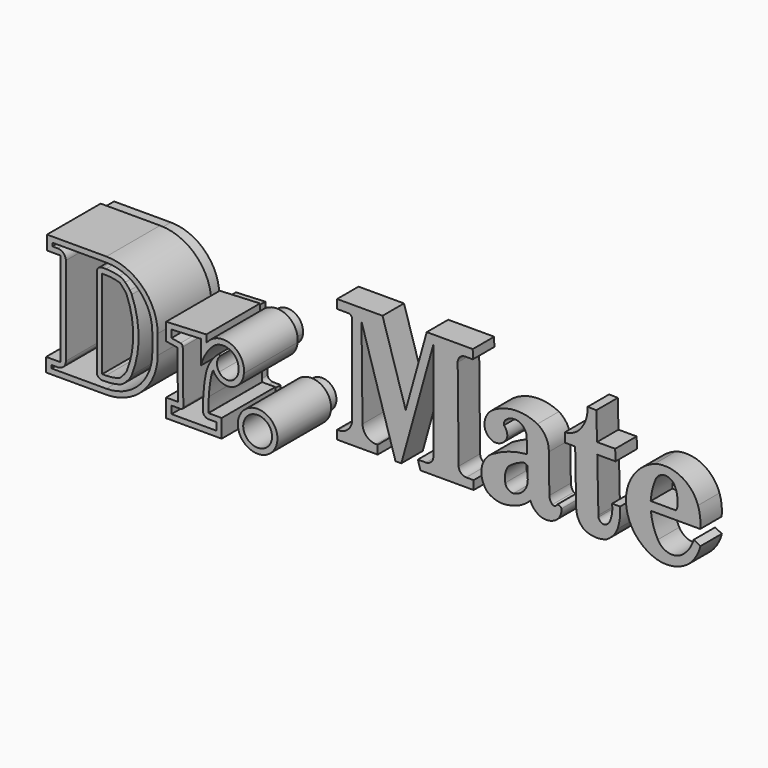
from build123d import *

# Parameters (mm, degrees)
F1_DEPTH  = 5
F3_DEPTH  = 12.5
F4_R      = 5
F6_DEPTH  = 5
F7_R      = 5.37597
F8_DEPTH  = 5
F10_DEPTH = 5
F12_DEPTH = 5
F14_DEPTH = 5
F16_DEPTH = 5
F18_DEPTH = 25
F20_DEPTH = 25
F21_R     = 7.37597
F21_R_2   = 5.37597
F22_DEPTH = 25


with BuildPart() as f1:
    # F0 (on Front) → F1 (new body, symmetric)
    with BuildSketch(Plane.XZ):
        with BuildLine():
            ThreePointArc((41.928615, 27.375755), (36.627247, 40.174388), (23.828615, 45.475755))
            Line((23.828615, 45.475755), (2.694897, 45.475755))
            Line((2.694897, 45.475755), (2.694897, 42.241637))
            Line((2.694897, 42.241637), (5.72509, 42.241637))
            ThreePointArc((5.72509, 42.241637), (7.139303, 41.65585), (7.72509, 40.241637))
            Line((7.72509, 40.241637), (7.72509, 7.241453))
            ThreePointArc((7.72509, 7.241453), (7.139303, 5.827239), (5.72509, 5.241453))
            Line((5.72509, 5.241453), (2.359551, 5.241453))
            Line((2.359551, 5.241453), (2.359551, 2.111555))
            Line((2.359551, 2.111555), (23.828615, 2.111555))
            ThreePointArc((23.828615, 2.111555), (36.627247, 7.412922), (41.928615, 20.211555))
            Line((41.928615, 20.211555), (41.928615, 27.375755))
        make_face()
    extrude(amount=F1_DEPTH, both=True)

    # F2 (on Front) → F3 (cut, symmetric)
    with BuildSketch(Plane.XZ):
        with BuildLine():
            ThreePointArc((22.255834, 42.332382), (20.84162, 41.746595), (20.255834, 40.332382))
            Line((20.255834, 40.332382), (20.255834, 7.374743))
            ThreePointArc((20.255834, 7.374743), (20.84162, 5.96053), (22.255834, 5.374743))
            Line((22.255834, 5.374743), (23.679911, 5.374743))
            ThreePointArc((23.679911, 5.374743), (26.847073, 5.655571), (29.915409, 6.489289))
            ThreePointArc((29.915409, 6.489289), (31.557457, 8.171211), (33.024682, 10.00763))
            ThreePointArc((33.024682, 10.00763), (35.838498, 23.853563), (33.024682, 37.699496))
            ThreePointArc((33.024682, 37.699496), (31.557457, 39.535914), (29.915409, 41.217836))
            ThreePointArc((29.915409, 41.217836), (26.847073, 42.051555), (23.679911, 42.332382))
            Line((23.679911, 42.332382), (22.255834, 42.332382))
        make_face()
    extrude(amount=F3_DEPTH, both=True, mode=Mode.SUBTRACT)

    # F4
    f4_edges = [f1.edges().sort_by_distance(p)[0] for p in [
        (33.024682, 0, 10.00763),
        (29.915409, 0, 6.489289),
        (33.024682, 0, 37.699496),
        (29.915409, 0, 41.217836),
    ]]
    fillet(f4_edges, radius=F4_R)


with BuildPart() as f6:
    # F5 (on Front) → F6 (new body, symmetric)
    with BuildSketch(Plane.XZ):
        with BuildLine():
            Line((59.08636, 30.932959), (48.097987, 30.420209))
            Line((48.097987, 30.420209), (48.097987, 27.610346))
            Line((48.097987, 27.610346), (51.457718, 27.038821))
            ThreePointArc((51.457718, 27.038821), (52.050479, 26.702366), (52.289954, 26.064229))
            Line((52.289954, 26.064229), (52.510208, 6.479412))
            ThreePointArc((52.510208, 6.479412), (52.221343, 5.765047), (51.510271, 5.468167))
            Line((51.510271, 5.468167), (48.097987, 5.468167))
            Line((48.097987, 5.468167), (48.097987, 2.663691))
            Line((48.097987, 2.663691), (64.79115, 2.663691))
            Line((64.79115, 2.663691), (64.79115, 5.468167))
            Line((64.79115, 5.468167), (61.827441, 5.468167))
            ThreePointArc((61.827441, 5.468167), (60.623815, 5.923207), (59.888292, 6.97904))
            ThreePointArc((59.888292, 6.97904), (59.807752, 10.034382), (60.031943, 13.082551))
            ThreePointArc((60.031943, 13.082551), (60.342022, 16.746232), (60.961258, 20.370491))
            ThreePointArc((60.961258, 20.370491), (62.625207, 24.520168), (65.505102, 27.939927))
            ThreePointArc((65.505102, 27.939927), (65.978585, 27.977635), (66.106237, 27.520128))
            ThreePointArc((66.106237, 27.520128), (65.059345, 24.927677), (65.855473, 22.247571))
            ThreePointArc((65.855473, 22.247571), (67.650507, 20.854267), (69.917969, 20.70575))
            ThreePointArc((69.917969, 20.70575), (72.143746, 22.340309), (73.065154, 24.943551))
            ThreePointArc((73.065154, 24.943551), (70.299431, 30.621512), (63.990012, 30.339213))
            ThreePointArc((63.990012, 30.339213), (60.907157, 26.647036), (59.08636, 22.194974))
            Line((59.08636, 22.194974), (59.08636, 30.932959))
        make_face()
    extrude(amount=F6_DEPTH, both=True)


with BuildPart() as f8:
    # F7 (on Front) → F8 (new body, symmetric)
    with BuildSketch(Plane.XZ):
        with Locations((80.198042, 7.442546)):
            Circle(F7_R)
    extrude(amount=F8_DEPTH, both=True)


with BuildPart() as f10:
    # F9 (on Front) → F10 (new body, symmetric)
    with BuildSketch(Plane.XZ):
        with BuildLine():
            Line((110.74648, 47.16339), (93.808994, 47.16339))
            Line((93.808994, 47.16339), (93.808994, 43.880991))
            Line((93.808994, 43.880991), (97.904898, 43.874651))
            ThreePointArc((97.904898, 43.874651), (98.964057, 43.434491), (99.402577, 42.374652))
            Line((99.402577, 42.374652), (99.402577, 9.272454))
            ThreePointArc((99.402577, 9.272454), (97.93811, 5.73692), (94.402577, 4.272454))
            Line((94.402577, 4.272454), (93.808994, 4.272454))
            Line((93.808994, 4.272454), (93.808994, 1.022454))
            Line((93.808994, 1.022454), (108.944058, 1.022454))
            Line((108.944058, 1.022454), (108.944058, 4.272454))
            Line((108.944058, 4.272454), (108.282536, 4.272454))
            ThreePointArc((108.282536, 4.272454), (104.76645, 5.717579), (103.282837, 9.217598))
            Line((103.282837, 9.217598), (102.915005, 42.742875))
            Line((102.915005, 42.742875), (115.568945, 1.022454))
            Line((115.568945, 1.022454), (117.742939, 1.022454))
            Line((117.742939, 1.022454), (129.686892, 43.889792))
            Line((129.686892, 43.889792), (129.686892, 7.072454))
            ThreePointArc((129.686892, 7.072454), (128.866791, 5.092555), (126.886892, 4.272454))
            Line((126.886892, 4.272454), (123.900531, 4.272454))
            Line((123.900531, 4.272454), (124.897261, 1.022454))
            Line((124.897261, 1.022454), (144.708101, 1.022454))
            Line((144.708101, 1.022454), (144.683811, 4.272454))
            Line((144.683811, 4.272454), (141.919095, 4.272454))
            ThreePointArc((141.919095, 4.272454), (139.949968, 5.081841), (139.11926, 7.042068))
            Line((139.11926, 7.042068), (138.750977, 40.976699))
            ThreePointArc((138.750977, 40.976699), (139.561724, 42.977752), (141.555147, 43.807082))
            Line((141.555147, 43.807082), (144.388369, 43.802696))
            Line((144.388369, 43.802696), (144.363252, 47.16339))
            Line((144.363252, 47.16339), (127.217549, 47.16339))
            Line((127.217549, 47.16339), (119.376829, 19.022725))
            Line((119.376829, 19.022725), (110.74648, 47.16339))
        make_face()
    extrude(amount=F10_DEPTH, both=True)


with BuildPart() as f12:
    # F11 (on Front) → F12 (new body, symmetric)
    with BuildSketch(Plane.XZ):
        with BuildLine():
            Line((172.926531, 8.419896), (172.704191, 22.648923))
            ThreePointArc((172.704191, 22.648923), (171.660538, 27.119698), (168.47995, 30.430423))
            ThreePointArc((168.47995, 30.430423), (159.759284, 32.208352), (151.360646, 29.263198))
            ThreePointArc((151.360646, 29.263198), (149.300705, 26.589789), (148.748294, 23.260327))
            ThreePointArc((148.748294, 23.260327), (149.945557, 20.709433), (152.36114, 19.258413))
            ThreePointArc((152.36114, 19.258413), (155.232605, 19.907327), (157.141194, 22.148684))
            ThreePointArc((157.141194, 22.148684), (157.066828, 24.195743), (155.973971, 25.92827))
            ThreePointArc((155.973971, 25.92827), (156.134728, 27.216745), (156.97445, 28.207138))
            ThreePointArc((156.97445, 28.207138), (161.546547, 28.93237), (164.448523, 25.325632))
            Line((164.448523, 25.325632), (164.626919, 19.28151))
            ThreePointArc((164.626919, 19.28151), (157.740648, 17.875146), (151.357234, 14.933951))
            ThreePointArc((151.357234, 14.933951), (147.596617, 8.676913), (150.094763, 1.817465))
            ThreePointArc((150.094763, 1.817465), (153.64598, 0.288208), (157.512472, 0.28473))
            ThreePointArc((157.512472, 0.28473), (162.017435, 1.680725), (165.845022, 4.436279))
            ThreePointArc((165.845022, 4.436279), (167.091284, 2.346176), (168.942556, 0.766779))
            ThreePointArc((168.942556, 0.766779), (171.775044, 0.050313), (174.615234, 0.73561))
            ThreePointArc((174.615234, 0.73561), (176.772216, 2.73153), (177.420408, 5.597906))
            ThreePointArc((177.420408, 5.597906), (176.713168, 6.316821), (175.704971, 6.293061))
            ThreePointArc((175.704971, 6.293061), (174.977199, 5.656797), (174.020842, 5.797732))
            ThreePointArc((174.020842, 5.797732), (173.221721, 7.003661), (172.926531, 8.419896))
        make_face()
        with BuildLine():
            ThreePointArc((163.461283, 16.100695), (164.179338, 15.938822), (164.739669, 15.461501))
            Line((164.739669, 15.461501), (164.86997, 11.04687))
            ThreePointArc((164.86997, 11.04687), (163.406679, 6.870682), (159.524788, 4.746372))
            ThreePointArc((159.524788, 4.746372), (157.538787, 5.414789), (156.490204, 7.229027))
            ThreePointArc((156.490204, 7.229027), (156.458366, 10.178856), (157.538787, 12.923887))
            ThreePointArc((157.538787, 12.923887), (160.311688, 14.863426), (163.461283, 16.100695))
        make_face(mode=Mode.SUBTRACT)
    extrude(amount=F12_DEPTH, both=True)


with BuildPart() as f14:
    # F13 (on Front) → F14 (new body, symmetric)
    with BuildSketch(Plane.XZ):
        with BuildLine():
            Line((190.436974, 42.102426), (187.175499, 42.15927))
            ThreePointArc((187.175499, 42.15927), (186.701858, 38.25839), (185.005292, 34.713976))
            ThreePointArc((185.005292, 34.713976), (182.273605, 32.146843), (178.691778, 31.041044))
            Line((178.691778, 31.041044), (178.790871, 27.632236))
            Line((178.790871, 27.632236), (182.531143, 27.632236))
            Line((182.531143, 27.632236), (182.90991, 7.557625))
            ThreePointArc((182.90991, 7.557625), (183.699023, 4.232647), (185.783133, 1.524389))
            ThreePointArc((185.783133, 1.524389), (189.972202, 0.296199), (194.282547, 0.987338))
            ThreePointArc((194.282547, 0.987338), (196.721963, 3.042422), (198.368803, 5.774096))
            ThreePointArc((198.368803, 5.774096), (199.188301, 9.526595), (199.265575, 13.366759))
            Line((199.265575, 13.366759), (196.291596, 13.366759))
            ThreePointArc((196.291596, 13.366759), (196.261359, 10.124445), (195.356548, 7.010794))
            ThreePointArc((195.356548, 7.010794), (194.65277, 6.165584), (193.704605, 5.608208))
            ThreePointArc((193.704605, 5.608208), (192.105361, 5.900663), (191.217607, 7.262648))
            ThreePointArc((191.217607, 7.262648), (191.187936, 7.56772), (191.203913, 7.873814))
            Line((191.203913, 7.873814), (190.761199, 27.632236))
            Line((190.761199, 27.632236), (197.585095, 27.632236))
            Line((197.585095, 27.632236), (197.441921, 31.726956))
            Line((197.441921, 31.726956), (190.669451, 31.726956))
            Line((190.669451, 31.726956), (190.436974, 42.102426))
        make_face()
        with BuildLine():
            Line((191.217607, 7.262648), (191.203913, 7.873814))
            ThreePointArc((191.203913, 7.873814), (191.187936, 7.56772), (191.217607, 7.262648))
        make_face()
    extrude(amount=F14_DEPTH, both=True)


with BuildPart() as f16:
    # F15 (on Front) → F16 (new body, symmetric)
    with BuildSketch(Plane.XZ):
        with BuildLine():
            ThreePointArc((213.341057, 7.057155), (211.598673, 11.247591), (210.740326, 15.703923))
            Line((210.740326, 15.703923), (229.120436, 15.703923))
            ThreePointArc((229.120436, 15.703923), (229.123198, 19.493332), (228.311559, 23.194801))
            ThreePointArc((228.311559, 23.194801), (221.931664, 30.647824), (212.165326, 31.58015))
            ThreePointArc((212.165326, 31.58015), (201.460081, 15.70659), (213.051207, 0.46789))
            ThreePointArc((213.051207, 0.46789), (219.365152, 0.281064), (225.057542, 3.019219))
            ThreePointArc((225.057542, 3.019219), (227.646267, 6.258141), (229.203355, 10.101002))
            Line((229.203355, 10.101002), (226.694487, 11.403073))
            ThreePointArc((226.694487, 11.403073), (225.025839, 7.846061), (222.305551, 5.011143))
            ThreePointArc((222.305551, 5.011143), (217.363891, 4.021255), (213.341057, 7.057155))
        make_face()
        with BuildLine():
            Line((220.106691, 18.885396), (210.686156, 18.885396))
            ThreePointArc((210.686156, 18.885396), (211.265175, 22.863019), (212.548524, 26.672186))
            ThreePointArc((212.548524, 26.672186), (216.179918, 29.027377), (219.754039, 26.586146))
            ThreePointArc((219.754039, 26.586146), (220.63323, 23.36758), (220.584422, 20.03145))
            ThreePointArc((220.584422, 20.03145), (220.372229, 19.447305), (220.106691, 18.885396))
        make_face(mode=Mode.SUBTRACT)
    extrude(amount=F16_DEPTH, both=True)


with BuildPart() as f18:
    # F17 (on Front) → F18 (new body)
    with BuildSketch(Plane.XZ):
        with BuildLine():
            ThreePointArc((42.928615, 27.375755), (37.334354, 40.881495), (23.828615, 46.475755))
            Line((23.828615, 46.475755), (1.694897, 46.475755))
            Line((1.694897, 46.475755), (1.694897, 41.241637))
            Line((1.694897, 41.241637), (6.72509, 41.241637))
            Line((6.72509, 41.241637), (6.72509, 6.241453))
            Line((6.72509, 6.241453), (1.359551, 6.241453))
            Line((1.359551, 6.241453), (1.359551, 1.111555))
            Line((1.359551, 1.111555), (23.828615, 1.111555))
            ThreePointArc((23.828615, 1.111555), (37.334354, 6.705816), (42.928615, 20.211555))
            Line((42.928615, 20.211555), (42.928615, 27.375755))
        make_face()
        with BuildLine():
            Line((2.359551, 5.241453), (5.72509, 5.241453))
            ThreePointArc((5.72509, 5.241453), (7.139303, 5.827239), (7.72509, 7.241453))
            Line((7.72509, 7.241453), (7.72509, 40.241637))
            ThreePointArc((7.72509, 40.241637), (7.139303, 41.65585), (5.72509, 42.241637))
            Line((5.72509, 42.241637), (2.694897, 42.241637))
            Line((2.694897, 42.241637), (2.694897, 45.475755))
            Line((2.694897, 45.475755), (23.828615, 45.475755))
            ThreePointArc((23.828615, 45.475755), (36.627247, 40.174388), (41.928615, 27.375755))
            Line((41.928615, 27.375755), (41.928615, 20.211555))
            ThreePointArc((41.928615, 20.211555), (36.627247, 7.412922), (23.828615, 2.111555))
            Line((23.828615, 2.111555), (2.359551, 2.111555))
            Line((2.359551, 2.111555), (2.359551, 5.241453))
        make_face(mode=Mode.SUBTRACT)
        with BuildLine():
            ThreePointArc((7.72509, 7.241453), (7.139303, 5.827239), (5.72509, 5.241453))
            Line((5.72509, 5.241453), (2.359551, 5.241453))
            Line((2.359551, 5.241453), (2.359551, 2.111555))
            Line((2.359551, 2.111555), (23.828615, 2.111555))
            ThreePointArc((23.828615, 2.111555), (36.627247, 7.412922), (41.928615, 20.211555))
            Line((41.928615, 20.211555), (41.928615, 27.375755))
            ThreePointArc((41.928615, 27.375755), (36.627247, 40.174388), (23.828615, 45.475755))
            Line((23.828615, 45.475755), (2.694897, 45.475755))
            Line((2.694897, 45.475755), (2.694897, 42.241637))
            Line((2.694897, 42.241637), (5.72509, 42.241637))
            ThreePointArc((5.72509, 42.241637), (7.139303, 41.65585), (7.72509, 40.241637))
            Line((7.72509, 40.241637), (7.72509, 7.241453))
        make_face()
        with BuildLine():
            ThreePointArc((23.828615, 44.475757), (35.920142, 39.467282), (40.928616, 27.375755))
            Line((40.928616, 27.375755), (40.928616, 20.211555))
            ThreePointArc((40.928616, 20.211555), (35.920142, 8.120028), (23.828615, 3.111554))
            Line((23.828615, 3.111554), (3.35955, 3.111554))
            Line((3.35955, 3.111554), (3.35955, 4.241454))
            Line((3.35955, 4.241454), (5.72509, 4.241454))
            ThreePointArc((5.72509, 4.241454), (7.846409, 5.120133), (8.725088, 7.241453))
            Line((8.725088, 7.241453), (8.725088, 40.241637))
            ThreePointArc((8.725088, 40.241637), (7.846409, 42.362956), (5.72509, 43.241635))
            Line((5.72509, 43.241635), (3.694895, 43.241635))
            Line((3.694895, 43.241635), (3.694895, 44.475757))
            Line((3.694895, 44.475757), (23.828615, 44.475757))
        make_face(mode=Mode.SUBTRACT)
        with BuildLine():
            Line((23.679911, 42.332382), (22.255834, 42.332382))
            ThreePointArc((22.255834, 42.332382), (20.84162, 41.746595), (20.255834, 40.332382))
            Line((20.255834, 40.332382), (20.255834, 7.374743))
            ThreePointArc((20.255834, 7.374743), (20.84162, 5.96053), (22.255834, 5.374743))
            Line((22.255834, 5.374743), (23.679911, 5.374743))
            ThreePointArc((23.679911, 5.374743), (26.175002, 5.548512), (28.621918, 6.066463))
            ThreePointArc((28.621918, 6.066463), (29.821668, 6.586885), (30.845432, 7.400607))
            ThreePointArc((30.845432, 7.400607), (31.756392, 8.399239), (32.608892, 9.448218))
            ThreePointArc((32.608892, 9.448218), (32.984276, 10.013796), (33.279593, 10.625008))
            ThreePointArc((33.279593, 10.625008), (35.838498, 23.853563), (33.279593, 37.082117))
            ThreePointArc((33.279593, 37.082117), (32.984276, 37.693329), (32.608892, 38.258908))
            ThreePointArc((32.608892, 38.258908), (31.756392, 39.307886), (30.845432, 40.306518))
            ThreePointArc((30.845432, 40.306518), (29.821668, 41.120241), (28.621918, 41.640662))
            ThreePointArc((28.621918, 41.640662), (26.175002, 42.158613), (23.679911, 42.332382))
        make_face()
        with BuildLine():
            Line((22.255834, 7.374743), (22.255834, 40.332382))
            Line((22.255834, 40.332382), (23.679911, 40.332382))
            ThreePointArc((23.679911, 40.332382), (26.299493, 40.116481), (28.848378, 39.474606))
            ThreePointArc((28.848378, 39.474606), (30.118332, 38.143869), (31.270921, 36.710278))
            ThreePointArc((31.270921, 36.710278), (33.838498, 23.853563), (31.270921, 10.996847))
            ThreePointArc((31.270921, 10.996847), (30.118332, 9.563256), (28.848378, 8.232519))
            ThreePointArc((28.848378, 8.232519), (26.299493, 7.590644), (23.679911, 7.374743))
            Line((23.679911, 7.374743), (22.255834, 7.374743))
        make_face(mode=Mode.SUBTRACT)
    extrude(amount=F18_DEPTH)


with BuildPart() as f20:
    # F19 (on Front) → F20 (new body)
    with BuildSketch(Plane.XZ):
        with BuildLine():
            ThreePointArc((62.914388, 19.939911), (63.220059, 21.043236), (63.628687, 22.112714))
            ThreePointArc((63.628687, 22.112714), (63.903283, 21.585434), (64.226838, 21.086695))
            ThreePointArc((64.226838, 21.086695), (66.995283, 18.964054), (70.479182, 18.784229))
            ThreePointArc((70.479182, 18.784229), (73.692549, 21.072453), (75.059213, 24.772984))
            ThreePointArc((75.059213, 24.772984), (71.241784, 32.387385), (62.737933, 31.901164))
            ThreePointArc((62.737933, 31.901164), (61.88516, 31.108176), (61.086359, 30.260845))
            Line((61.086359, 30.260845), (61.086359, 33.02846))
            Line((61.086359, 33.02846), (46.097988, 32.329058))
            Line((46.097988, 32.329058), (46.097988, 25.921836))
            Line((46.097988, 25.921836), (50.299468, 25.207121))
            Line((50.299468, 25.207121), (50.498963, 7.468166))
            Line((50.498963, 7.468166), (46.097988, 7.468166))
            Line((46.097988, 7.468166), (46.097988, 0.663692))
            Line((46.097988, 0.663692), (66.791149, 0.663692))
            Line((66.791149, 0.663692), (66.791149, 7.468166))
            Line((66.791149, 7.468166), (61.922686, 7.468166))
            ThreePointArc((61.922686, 7.468166), (61.888198, 7.479619), (61.856841, 7.497986))
            ThreePointArc((61.856841, 7.497986), (61.81335, 10.211443), (62.026821, 12.916841))
            ThreePointArc((62.026821, 12.916841), (62.320135, 16.447392), (62.914388, 19.939911))
        make_face()
        with BuildLine():
            ThreePointArc((66.106237, 27.520128), (65.978585, 27.977635), (65.505102, 27.939927))
            ThreePointArc((65.505102, 27.939927), (62.625207, 24.520168), (60.961258, 20.370491))
            ThreePointArc((60.961258, 20.370491), (60.342022, 16.746232), (60.031943, 13.082551))
            ThreePointArc((60.031943, 13.082551), (59.807752, 10.034382), (59.888292, 6.97904))
            ThreePointArc((59.888292, 6.97904), (60.623815, 5.923207), (61.827441, 5.468167))
            Line((61.827441, 5.468167), (64.79115, 5.468167))
            Line((64.79115, 5.468167), (64.79115, 2.663691))
            Line((64.79115, 2.663691), (48.097987, 2.663691))
            Line((48.097987, 2.663691), (48.097987, 5.468167))
            Line((48.097987, 5.468167), (51.510271, 5.468167))
            ThreePointArc((51.510271, 5.468167), (52.221343, 5.765047), (52.510208, 6.479412))
            Line((52.510208, 6.479412), (52.289954, 26.064229))
            ThreePointArc((52.289954, 26.064229), (52.050479, 26.702366), (51.457718, 27.038821))
            Line((51.457718, 27.038821), (48.097987, 27.610346))
            Line((48.097987, 27.610346), (48.097987, 30.420209))
            Line((48.097987, 30.420209), (59.08636, 30.932959))
            Line((59.08636, 30.932959), (59.08636, 22.194974))
            ThreePointArc((59.08636, 22.194974), (60.907157, 26.647036), (63.990012, 30.339213))
            ThreePointArc((63.990012, 30.339213), (70.299431, 30.621512), (73.065154, 24.943551))
            ThreePointArc((73.065154, 24.943551), (72.143746, 22.340309), (69.917969, 20.70575))
            ThreePointArc((69.917969, 20.70575), (67.650507, 20.854267), (65.855473, 22.247571))
            ThreePointArc((65.855473, 22.247571), (65.059345, 24.927677), (66.106237, 27.520128))
        make_face(mode=Mode.SUBTRACT)
    extrude(amount=F20_DEPTH)


with BuildPart() as f22:
    # F21 (on Front) → F22 (new body)
    with BuildSketch(Plane.XZ):
        with Locations((80.198042, 7.442546)):
            Circle(F21_R)
        with Locations((80.198042, 7.442546)):
            Circle(F21_R_2, mode=Mode.SUBTRACT)
    extrude(amount=F22_DEPTH)


solid = Compound([f1.part, f6.part, f8.part, f10.part, f12.part, f14.part, f16.part, f18.part, f20.part, f22.part])
